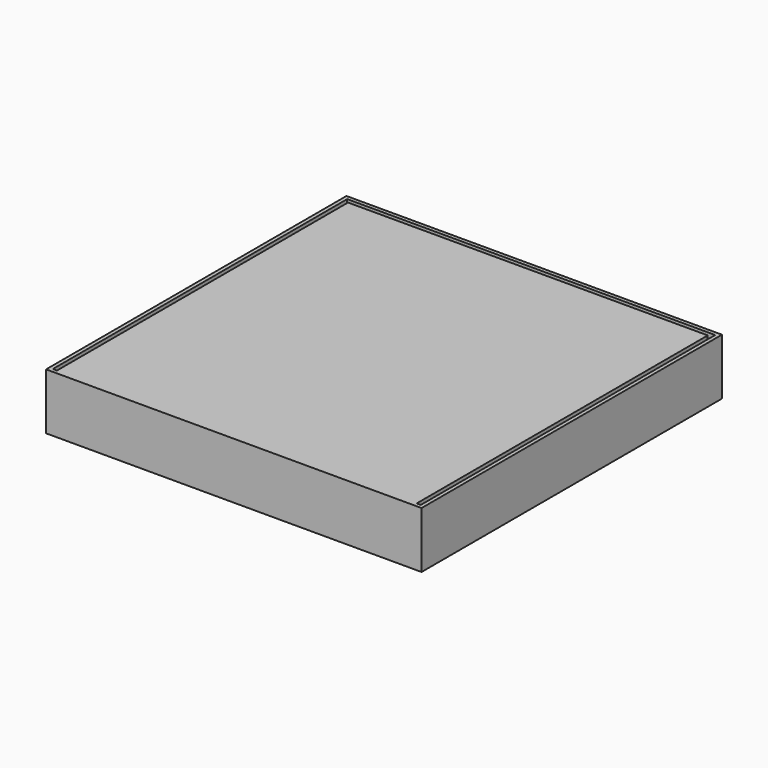
from build123d import *

# Parameters (mm, degrees)
F0_W     = 500
F0_H     = 500
F1_DEPTH = 75
F2_W     = 479
F2_H     = 5.5
F3_DEPTH = 15


with BuildPart() as f1:
    # F0 (on Top) → F1 (new body)
    with BuildSketch(Plane.XY):
        Rectangle(F0_W, F0_H)
    extrude(amount=F1_DEPTH)

    # F2 (on face) → F3 (cut)
    with BuildSketch(Plane.XY.offset(75)):
        Polygon((-239.5, 245), (-245, 245), (-245, -245), (-239.5, -245), (-239.5, 239.5), align=None)
        Polygon((245, 245), (239.5, 245), (239.5, 239.5), (239.5, -245), (245, -245), align=None)
        with Locations((0, 242.25)):
            Rectangle(F2_W, F2_H)
    extrude(amount=-F3_DEPTH, mode=Mode.SUBTRACT)


solid = f1.part
